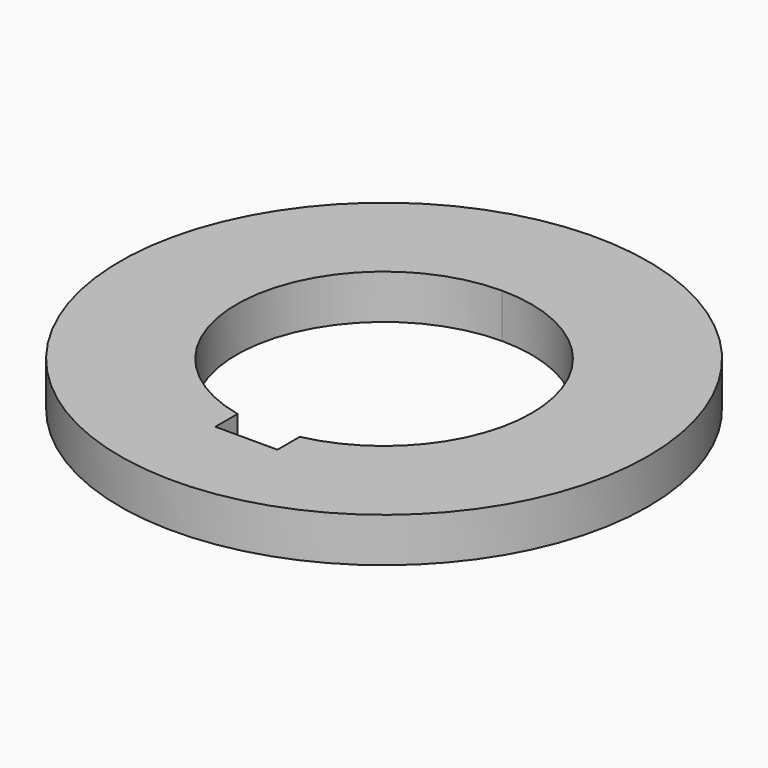
from build123d import *

# Parameters (mm, degrees)
F0_R     = 119
F1_DEPTH = 20


with BuildPart() as f1:
    # F0 (on Top) → F1 (new body)
    with BuildSketch(Plane.XY):
        Circle(F0_R)
        with BuildLine():
            Line((-14, -77.585713), (-14, -65.009615))
            ThreePointArc((-14, -65.009615), (-66.126354, 7.039553), (0, 66.5))
            ThreePointArc((0, 66.5), (47.022601, 47.022601), (66.5, 0))
            ThreePointArc((66.5, 0), (51.736109, -41.780677), (14, -65.009615))
            Line((14, -65.009615), (14, -77.585713))
            Line((14, -77.585713), (-14, -77.585713))
        make_face(mode=Mode.SUBTRACT)
    extrude(amount=F1_DEPTH)


solid = f1.part
